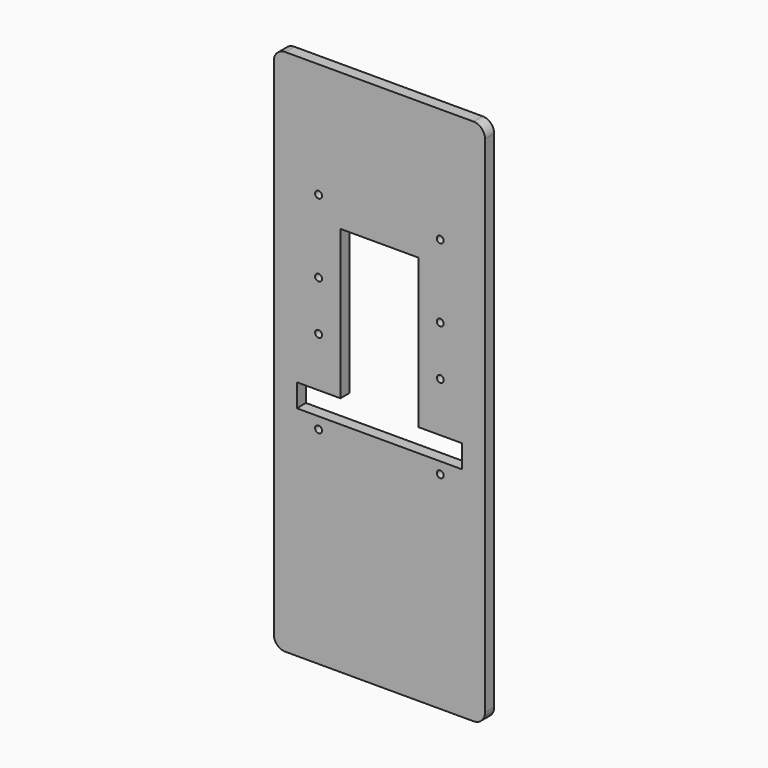
from build123d import *

# Parameters (mm, degrees)
F0_W     = 92
F0_H     = 230
F0_R     = 1.5
F1_DEPTH = 5
F2_R     = 5


with BuildPart() as f1:
    # F0 (on Front) → F1 (new body)
    with BuildSketch(Plane.XZ):
        with Locations((46, 115)):
            Rectangle(F0_W, F0_H)
        with Locations((19.5, 90)):
            Circle(F0_R, mode=Mode.SUBTRACT)
        with Locations((72.5, 90)):
            Circle(F0_R, mode=Mode.SUBTRACT)
        with Locations((19.5, 126.6)):
            Circle(F0_R, mode=Mode.SUBTRACT)
        with Locations((19.5, 148.2)):
            Circle(F0_R, mode=Mode.SUBTRACT)
        with Locations((19.5, 180)):
            Circle(F0_R, mode=Mode.SUBTRACT)
        Polygon((82, 95), (10, 95), (10, 105), (29, 105), (29, 170), (63, 170), (63, 105), (82, 105), align=None, mode=Mode.SUBTRACT)
        with Locations((72.5, 126.6)):
            Circle(F0_R, mode=Mode.SUBTRACT)
        with Locations((72.5, 148.2)):
            Circle(F0_R, mode=Mode.SUBTRACT)
        with Locations((72.5, 180)):
            Circle(F0_R, mode=Mode.SUBTRACT)
    extrude(amount=F1_DEPTH)

    # F2
    f2_edges = [f1.edges().sort_by_distance(p)[0] for p in [
        (92, -2.5, 230),
        (0, -2.5, 230),
        (0, -2.5, 0),
        (92, -2.5, 0),
    ]]
    fillet(f2_edges, radius=F2_R)


solid = f1.part
